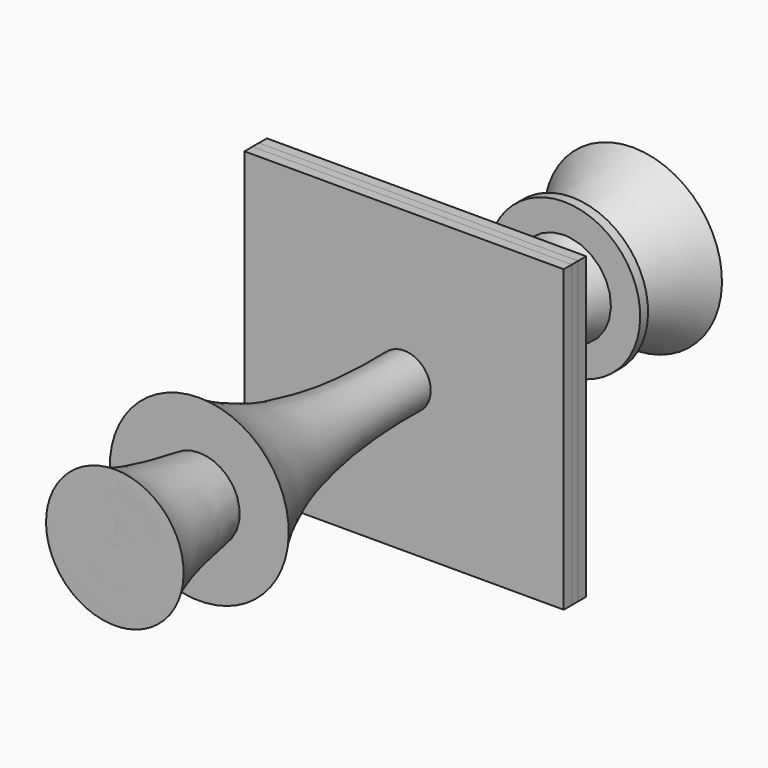
from build123d import *

# Parameters (mm, degrees)
F2_W     = 40.4395349324
F2_H     = 37.9695501179
F3_DEPTH = 1.27
F4_DEPTH = 1.016
F5_DEPTH = 2.286
F7_R     = 3.2925087704
F8_DEPTH = 1.016
F11_W    = 1.2453123927
F11_H    = 9.656470269


with BuildPart() as f1:
    # F0 (on Right) → F1 (revolve)
    with BuildSketch(Plane.YZ):
        with BuildLine():
            add(Edge.make_bspline(
                [(-47.0742359757, 8.7107419968), (-45.5410551518, 7.7693155793), (-41.3156030699, 6.3578574608), (-34.985825815, 5.3352284064), (-28.5948820749, 4.3150513186), (-21.6986083873, 3.5972867085), (-11.8783202457, 3.1787780341), (-5.3843947324, 3.035352921), (0, 3.1397684943)],
                knots=[0, 0, 0, 0, 0.1469909582, 0.2995925096, 0.4502036552, 0.607341891, 0.7889240374, 1, 1, 1, 1], degree=3))
            add(Edge.make_bspline(
                [(-47.0742359757, 8.7107419968), (-47.0992401242, 7.4104415253), (-47.0960943764, 7.7483796139), (-47.1095043782, 6.3077840598), (-47.052819449, 5.0360179284), (-47.123601629, 3.5460729826), (-47.0519924909, 1.9507136873), (-47.1065118318, 0.54873647), (-47.0784701868, 0.2509272086), (-47.0534935594, 0)],
                knots=[0, 0, 0, 0, 0.1476168377, 0.2770734032, 0.4288872115, 0.5861229653, 0.7536772999, 0.9018845395, 1, 1, 1, 1], degree=3))
            Line((-47.0534935594, 0), (0, 0))
            Line((0, 0), (0, 3.1397684943))
        make_face()
        with BuildLine():
            add(Edge.make_bspline(
                [(0, 3.1397684943), (1.7098702291, 3.2149170968), (5.568886212, 3.2442745484), (12.341589286, 3.5218040686), (21.4640839255, 4.0744296839), (23.4116543227, 4.2935197638), (24.0814909338, 4.3663222659)],
                knots=[0, 0, 0, 0, 0.2415632406, 0.5223123683, 0.8362653901, 1, 1, 1, 1], degree=3))
            Line((0, 3.1397684943), (0, 0))
            Line((0, 0), (24.0814909338, 0))
            Line((24.0814909338, 0), (24.0814909338, 4.3663222659))
        make_face()
    revolve(axis=Axis((0, -23.5267467797, 0), (0, -1, 0)))


with BuildPart() as f3:
    # F2 (on Front) → F3 (new body)
    with BuildSketch(Plane.XZ):
        Rectangle(F2_W, F2_H)
    extrude(amount=F3_DEPTH)


with BuildPart() as f4:
    # F2 (on Front) → F4 (new body)
    with BuildSketch(Plane.XZ):
        Rectangle(F2_W, F2_H)
    extrude(amount=-F4_DEPTH)


with BuildPart() as f5:
    # F2 (on Front) → F5 (new body)
    with BuildSketch(Plane.XZ):
        Rectangle(F2_W, F2_H)
    extrude(amount=-F5_DEPTH)

    # F6: cut F4
    add(f4.part, mode=Mode.SUBTRACT)


with BuildPart() as f8:
    # F7 (on Front) → F8 (new body)
    with BuildSketch(Plane.XZ):
        Circle(F7_R)
    extrude(amount=-F8_DEPTH)


with BuildPart() as f10:
    # F9 (on Right) → F10 (revolve)
    with BuildSketch(Plane.YZ):
        with BuildLine():
            Line((-33.7132439017, 0), (0, 0))
            Line((0, 0), (0, 3.3400377724))
            add(Edge.make_bspline(
                [(0, 3.3400377724), (-0.6882356826, 3.3548025014), (-1.893478598, 3.3379732889), (-4.9370318181, 3.3123067813), (-8.2535718276, 3.4525727803), (-10.757338168, 3.6249932592), (-13.0075855409, 3.8513161071), (-15.0986857641, 4.167449602), (-16.822384644, 4.4623348505), (-19.1374602208, 4.9352197759), (-21.2540390382, 5.4118306122), (-23.171422674, 6.0177572776), (-25.1061521922, 6.7852014836), (-26.9498246204, 7.5311852188), (-28.6501128717, 8.2726415542), (-30.7802015459, 9.3731076873), (-32.4083278486, 10.271097684), (-33.7132439017, 11.2777482718)],
                knots=[0, 0, 0, 0, 0.0602290793, 0.1360055303, 0.216658413, 0.2860045749, 0.3516872159, 0.4147829177, 0.4728295021, 0.5398587167, 0.6047289299, 0.6666050142, 0.7297771548, 0.7913477826, 0.8507391209, 0.9160122918, 1, 1, 1, 1], degree=3))
            Line((-33.7132439017, 11.2777482718), (-33.7132439017, 0))
        make_face()
    revolve(axis=Axis((0, 17.9849214619, -0.0132623954), (0, -0.9999996945, -0.0007817058)))


with BuildPart() as f10b:
    # F9 (on Right) → F10, piece 2 (revolve)
    with BuildSketch(Plane.YZ):
        with BuildLine():
            add(Edge.make_bspline(
                [(1.0189581662, 3.3225498628), (1.8218910554, 3.3225498628), (3.1083074388, 3.3567670759), (6.1670233547, 3.3066137409), (9.4929949655, 3.4538992518), (11.9945579379, 3.624679864), (14.2453320681, 3.8513947537), (16.3363013538, 4.1674307966), (18.0600332885, 4.4623406506), (20.3750984399, 4.935217799), (22.4916822952, 5.4118324503), (24.4090566879, 6.0177520033), (26.3438184422, 6.7852210724), (28.1873749238, 7.5311153643), (29.8880921606, 8.2729026313), (32.0162656681, 9.3718913487), (33.6503685319, 10.2744918402), (34.9508847576, 11.2777482718)],
                knots=[0, 0, 0, 0, 0.0633977352, 0.1389186882, 0.2192996311, 0.2884119763, 0.353873153, 0.416756113, 0.4746069798, 0.5414101899, 0.6060616781, 0.6677291328, 0.7306882738, 0.7920513019, 0.8512423887, 0.9162954759, 1, 1, 1, 1], degree=3))
            Line((1.0189581662, 3.3225498628), (1.0189581662, -0.0265247909))
            Line((1.0189581662, -0.0265247909), (34.9508847576, 0))
            Line((34.9508847576, 0), (34.9508847576, 11.2777482718))
        make_face()
    revolve(axis=Axis((0, 17.9849214619, -0.0132623954), (0, -0.9999996945, -0.0007817058)))


with BuildPart() as f12:
    # F11 (on Right) → F12 (revolve)
    with BuildSketch(Plane.YZ):
        with Locations((24.6645081788, 4.8282351345)):
            Rectangle(F11_W, F11_H)
    revolve(axis=Axis((0, 24.6645081788, 0), (0, 1, 0)))


solid = Compound([f1.part, f3.part, f4.part, f5.part, f8.part, f10.part, f10b.part, f12.part])
